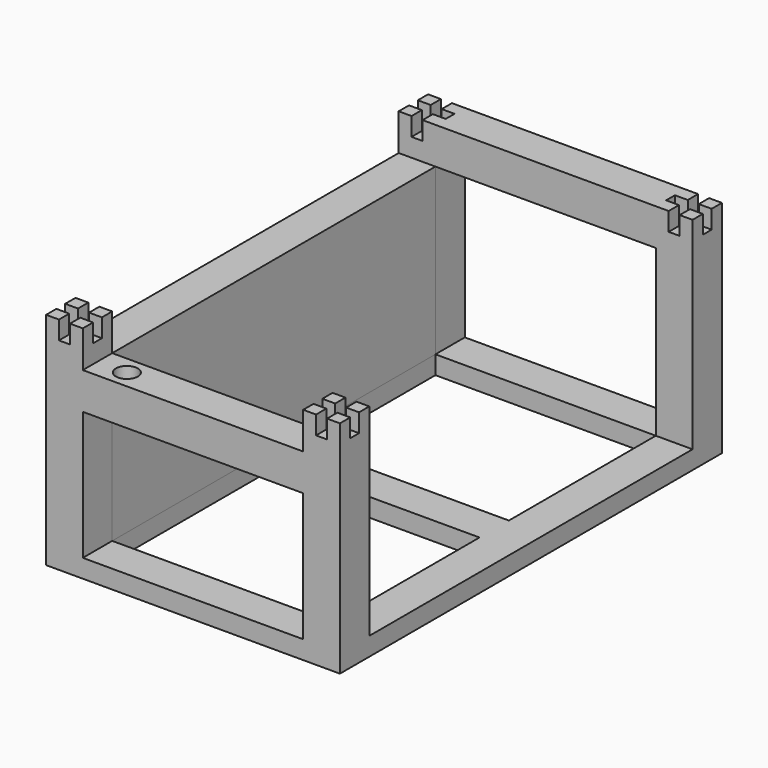
from build123d import *

# Parameters (mm, degrees)
BOX009_W       = 10
BOX009_H       = 120
BOX009_DEPTH   = 50
BOX010_W       = 3
BOX010_H       = 10
BOX010_DEPTH   = 5
BOX011_W       = 10
BOX011_H       = 3
BOX011_DEPTH   = 5
BOX012_W       = 3
BOX012_H       = 10
BOX012_DEPTH   = 5
BOX013_W       = 10
BOX013_H       = 3
BOX013_DEPTH   = 5
BOX014_W       = 3
BOX014_H       = 10
BOX014_DEPTH   = 5
BOX015_W       = 10
BOX015_H       = 3
BOX015_DEPTH   = 5
BOX016_W       = 3
BOX016_H       = 10
BOX016_DEPTH   = 5
BOX017_W       = 10
BOX017_H       = 3
BOX017_DEPTH   = 5
BOX003_W       = 10
BOX003_H       = 10
BOX003_DEPTH   = 60
BOX004_W       = 10
BOX004_H       = 10
BOX004_DEPTH   = 60
BOX005_W       = 10
BOX005_H       = 10
BOX005_DEPTH   = 60
BOX006_W       = 10
BOX006_H       = 10
BOX006_DEPTH   = 60
BOX008_W       = 80
BOX008_H       = 10
BOX008_DEPTH   = 10
BOX001_W       = 60
BOX001_H       = 50
BOX001_DEPTH   = 5
BOX002_W       = 60
BOX002_H       = 50
BOX002_DEPTH   = 5
BOX_W          = 80
BOX_H          = 130
BOX_DEPTH      = 5
CYLINDER_R     = 3
CYLINDER_DEPTH = 10
BOX007_W       = 80
BOX007_H       = 10
BOX007_DEPTH   = 10


with BuildPart() as cube009:
    # Box009 → Box009 (new body)
    with BuildSketch(Plane.XY):
        with Locations((5, 60)):
            Rectangle(BOX009_W, BOX009_H)
    extrude(amount=BOX009_DEPTH)


with BuildPart() as cube010:
    # Box010 → Box010 (new body)
    with BuildSketch(Plane(origin=(3.5, 0, 55), x_dir=(1, 0, 0), z_dir=(0, 0, 1))):
        with Locations((1.5, 5)):
            Rectangle(BOX010_W, BOX010_H)
    extrude(amount=BOX010_DEPTH)


with BuildPart() as fusion001:
    # Box011 → Box011 (new body)
    with BuildSketch(Plane(origin=(0, 3.5, 55), x_dir=(1, 0, 0), z_dir=(0, 0, 1))):
        with Locations((5, 1.5)):
            Rectangle(BOX011_W, BOX011_H)
    extrude(amount=BOX011_DEPTH)

    # Fusion001: union Cube010
    add(cube010.part)


with BuildPart() as cube012:
    # Box012 → Box012 (new body)
    with BuildSketch(Plane(origin=(3.5, 0, 55), x_dir=(1, 0, 0), z_dir=(0, 0, 1))):
        with Locations((1.5, 5)):
            Rectangle(BOX012_W, BOX012_H)
    extrude(amount=BOX012_DEPTH)


with BuildPart() as fusion002:
    # Box013 → Box013 (new body)
    with BuildSketch(Plane(origin=(0, 3.5, 55), x_dir=(1, 0, 0), z_dir=(0, 0, 1))):
        with Locations((5, 1.5)):
            Rectangle(BOX013_W, BOX013_H)
    extrude(amount=BOX013_DEPTH)

    # Fusion002: union Cube012
    add(cube012.part)


with BuildPart() as fusion002_1:
    # Fusion002 placement: moved
    add(fusion002.part.moved(Location((0, 120, 0))))


with BuildPart() as cube014:
    # Box014 → Box014 (new body)
    with BuildSketch(Plane(origin=(3.5, 0, 55), x_dir=(1, 0, 0), z_dir=(0, 0, 1))):
        with Locations((1.5, 5)):
            Rectangle(BOX014_W, BOX014_H)
    extrude(amount=BOX014_DEPTH)


with BuildPart() as fusion003:
    # Box015 → Box015 (new body)
    with BuildSketch(Plane(origin=(0, 3.5, 55), x_dir=(1, 0, 0), z_dir=(0, 0, 1))):
        with Locations((5, 1.5)):
            Rectangle(BOX015_W, BOX015_H)
    extrude(amount=BOX015_DEPTH)

    # Fusion003: union Cube014
    add(cube014.part)


with BuildPart() as fusion003_1:
    # Fusion003 placement: moved
    add(fusion003.part.moved(Location((70, 0, 0))))


with BuildPart() as cube016:
    # Box016 → Box016 (new body)
    with BuildSketch(Plane(origin=(3.5, 0, 55), x_dir=(1, 0, 0), z_dir=(0, 0, 1))):
        with Locations((1.5, 5)):
            Rectangle(BOX016_W, BOX016_H)
    extrude(amount=BOX016_DEPTH)


with BuildPart() as fusion005:
    # Box017 → Box017 (new body)
    with BuildSketch(Plane(origin=(0, 3.5, 55), x_dir=(1, 0, 0), z_dir=(0, 0, 1))):
        with Locations((5, 1.5)):
            Rectangle(BOX017_W, BOX017_H)
    extrude(amount=BOX017_DEPTH)

    # Fusion004: union Cube016
    add(cube016.part)


with BuildPart() as fusion005_1:
    # Fusion004 placement: moved
    add(fusion005.part.moved(Location((70, 120, 0))))

    # Fusion005: union Fusion001, Fusion002, Fusion003
    add(fusion001.part)
    add(fusion002_1.part)
    add(fusion003_1.part)


with BuildPart() as cube003:
    # Box003 → Box003 (new body)
    with BuildSketch(Plane.XY):
        with Locations((5, 5)):
            Rectangle(BOX003_W, BOX003_H)
    extrude(amount=BOX003_DEPTH)


with BuildPart() as cube004:
    # Box004 → Box004 (new body)
    with BuildSketch(Plane(origin=(0, 120, 0), x_dir=(1, 0, 0), z_dir=(0, 0, 1))):
        with Locations((5, 5)):
            Rectangle(BOX004_W, BOX004_H)
    extrude(amount=BOX004_DEPTH)


with BuildPart() as cube005:
    # Box005 → Box005 (new body)
    with BuildSketch(Plane(origin=(70, 120, 0), x_dir=(1, 0, 0), z_dir=(0, 0, 1))):
        with Locations((5, 5)):
            Rectangle(BOX005_W, BOX005_H)
    extrude(amount=BOX005_DEPTH)


with BuildPart() as cube006:
    # Box006 → Box006 (new body)
    with BuildSketch(Plane(origin=(70, 0, 0), x_dir=(1, 0, 0), z_dir=(0, 0, 1))):
        with Locations((5, 5)):
            Rectangle(BOX006_W, BOX006_H)
    extrude(amount=BOX006_DEPTH)


with BuildPart() as cube008:
    # Box008 → Box008 (new body)
    with BuildSketch(Plane(origin=(0, 120, 50), x_dir=(1, 0, 0), z_dir=(0, 0, 1))):
        with Locations((40, 5)):
            Rectangle(BOX008_W, BOX008_H)
    extrude(amount=BOX008_DEPTH)


with BuildPart() as cube001:
    # Box001 → Box001 (new body)
    with BuildSketch(Plane(origin=(10, 10, 0), x_dir=(1, 0, 0), z_dir=(0, 0, 1))):
        with Locations((30, 25)):
            Rectangle(BOX001_W, BOX001_H)
    extrude(amount=BOX001_DEPTH)


with BuildPart() as fusion:
    # Box002 → Box002 (new body)
    with BuildSketch(Plane(origin=(10, 70, 0), x_dir=(1, 0, 0), z_dir=(0, 0, 1))):
        with Locations((30, 25)):
            Rectangle(BOX002_W, BOX002_H)
    extrude(amount=BOX002_DEPTH)

    # Fusion: union Cube001
    add(cube001.part)


with BuildPart() as cut:
    # Box → Box (new body)
    with BuildSketch(Plane.XY):
        with Locations((40, 65)):
            Rectangle(BOX_W, BOX_H)
    extrude(amount=BOX_DEPTH)

    # Cut: cut Fusion
    add(fusion.part, mode=Mode.SUBTRACT)


with BuildPart() as cylinder:
    # Cylinder → Cylinder (new body)
    with BuildSketch(Plane(origin=(18, 5, 50), x_dir=(1, 0, 0), z_dir=(0, 0, 1))):
        Circle(CYLINDER_R)
    extrude(amount=CYLINDER_DEPTH)


with BuildPart() as cut002:
    # Box007 → Box007 (new body)
    with BuildSketch(Plane.XY.offset(50)):
        with Locations((40, 5)):
            Rectangle(BOX007_W, BOX007_H)
    extrude(amount=BOX007_DEPTH)

    # Cut001: cut Cylinder
    add(cylinder.part, mode=Mode.SUBTRACT)


with BuildPart() as cut002_1:
    # Cut001 placement: moved
    add(cut002.part.moved(Location((0, 0, -10))))

    # Fusion006: union Cube003, Cube004, Cube005, Cube006, Cube008, Cut
    add(cube003.part)
    add(cube004.part)
    add(cube005.part)
    add(cube006.part)
    add(cube008.part)
    add(cut.part)

    # Cut002: cut Fusion005
    add(fusion005_1.part, mode=Mode.SUBTRACT)


solid = Compound([cube009.part, cut002_1.part])
